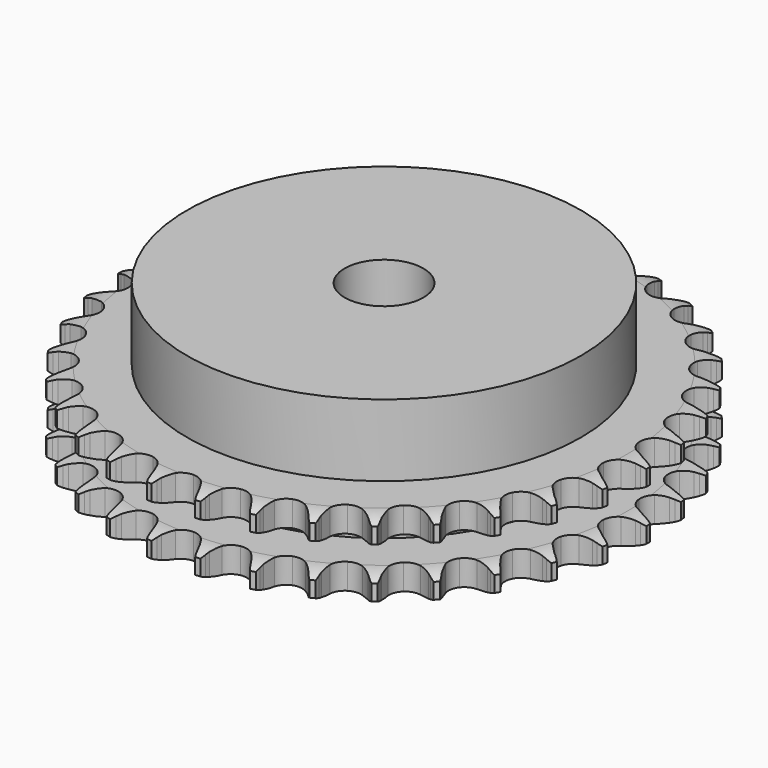
from build123d import *

# Parameters (mm, degrees)
PAD_DEPTH         = 15.4
SKETCH001_R       = 40
PAD001_DEPTH      = 30
SKETCH002_R       = 8
POCKET_DEPTH      = 0.001
POCKET_DEPTH_BACK = 30.001


with BuildPart() as part:
    # Sprocket → Pad (new body)
    with BuildSketch(Plane.XY):
        with BuildLine():
            ThreePointArc((-5.026037, 54.239578), (-4.44889, 53.462377), (-4.027454, 52.590867))
            Line((-4.027454, 52.590867), (-3.717669, 51.758402))
            ThreePointArc((-3.717669, 51.758402), (-3.226366, 50.680337), (-2.586733, 49.683105))
            ThreePointArc((-2.586733, 49.683105), (-1.446692, 48.728988), (0, 48.386769))
            ThreePointArc((0, 48.386769), (1.446692, 48.728988), (2.586733, 49.683105))
            ThreePointArc((2.586733, 49.683105), (3.226366, 50.680337), (3.717669, 51.758402))
            Line((3.717669, 51.758402), (4.027454, 52.590867))
            ThreePointArc((4.027454, 52.590867), (4.44889, 53.462377), (5.026037, 54.239578))
            ThreePointArc((5.026037, 54.239578), (5.450547, 53.36956), (5.704667, 52.43545))
            Line((5.704667, 52.43545), (5.856213, 51.560237))
            ThreePointArc((5.856213, 51.560237), (6.141056, 50.410251), (6.586558, 49.312466))
            ThreePointArc((6.586558, 49.312466), (7.531869, 48.165113), (8.891045, 47.562892))
            ThreePointArc((8.891045, 47.562892), (10.375987, 47.633455), (11.671935, 48.361844))
            Line((11.671935, 48.361844), (13.16495, 50.193997))
            ThreePointArc((13.16495, 50.193997), (13.383506, 50.580798), (13.622426, 50.955365))
            ThreePointArc((13.622426, 50.955365), (14.196826, 51.734597), (14.906956, 52.392514))
            ThreePointArc((14.906956, 52.392514), (15.164372, 51.459307), (15.242523, 50.494407))
            Line((15.242523, 50.494407), (15.230669, 49.606249))
            ThreePointArc((15.230669, 49.606249), (15.299353, 48.423504), (15.535551, 47.262551))
            ThreePointArc((15.535551, 47.262551), (16.25394, 45.961033), (17.479317, 45.119318))
            ThreePointArc((17.479317, 45.119318), (18.951941, 44.915822), (20.359664, 45.39368))
            Line((20.359664, 45.39368), (22.163914, 46.920296))
            ThreePointArc((22.163914, 46.920296), (22.449824, 47.260351), (22.753502, 47.584639))
            ThreePointArc((22.753502, 47.584639), (23.461305, 48.245058), (24.280236, 48.761286))
            ThreePointArc((24.280236, 48.761286), (24.361792, 47.796668), (24.261313, 46.833838))
            Line((24.261313, 46.833838), (24.086462, 45.962981))
            ThreePointArc((24.086462, 45.962981), (23.936648, 44.787754), (23.9555, 43.603166))
            ThreePointArc((23.9555, 43.603166), (24.422504, 42.191805), (25.472351, 41.13926))
            ThreePointArc((25.472351, 41.13926), (26.882509, 40.668635), (28.354069, 40.879688))
            Line((28.354069, 40.879688), (30.408113, 42.04878))
            ThreePointArc((30.408113, 42.04878), (30.75164, 42.33051), (31.109734, 42.593475))
            ThreePointArc((31.109734, 42.593475), (31.926838, 43.112591), (32.826681, 43.469551))
            ThreePointArc((32.826681, 43.469551), (32.729601, 42.506372), (32.453913, 41.578398))
            Line((32.453913, 41.578398), (32.12202, 40.754498))
            ThreePointArc((32.12202, 40.754498), (31.758809, 39.626809), (31.559673, 38.458928))
            ThreePointArc((31.559673, 38.458928), (31.759388, 36.985786), (32.597955, 35.758254))
            ThreePointArc((32.597955, 35.758254), (33.897625, 35.036526), (35.38291, 34.973587))
            Line((35.38291, 34.973587), (37.6168, 35.745343))
            ThreePointArc((37.6168, 35.745343), (38.006246, 35.959153), (38.406562, 36.151841))
            ThreePointArc((38.406562, 36.151841), (39.30514, 36.511976), (40.255254, 36.697513))
            ThreePointArc((40.255254, 36.697513), (39.982843, 35.768571), (39.541334, 34.907056))
            Line((39.541334, 34.907056), (39.0637, 34.158169))
            ThreePointArc((39.0637, 34.158169), (38.499462, 33.116422), (38.089119, 32.005017))
            ThreePointArc((38.089119, 32.005017), (38.014745, 30.520261), (38.613475, 29.159543))
            ThreePointArc((38.613475, 29.159543), (39.758398, 28.21129), (41.206828, 27.876503))
            Line((41.206828, 27.876503), (43.544492, 28.224642))
            ThreePointArc((43.544492, 28.224642), (43.966594, 28.363251), (44.395501, 28.4791))
            ThreePointArc((44.395501, 28.4791), (45.344954, 28.667989), (46.312982, 28.675784))
            ThreePointArc((46.312982, 28.675784), (45.874517, 27.812715), (45.282223, 27.046996))
            Line((45.282223, 27.046996), (44.675114, 26.398625))
            ThreePointArc((44.675114, 26.398625), (43.929062, 25.478294), (43.321486, 24.461213))
            ThreePointArc((43.321486, 24.461213), (42.975555, 23.015404), (43.314059, 21.567839))
            ThreePointArc((43.314059, 21.567839), (44.265247, 20.425353), (45.627497, 19.830117))
            Line((45.627497, 19.830117), (47.989329, 19.742784))
            ThreePointArc((47.989329, 19.742784), (48.429713, 19.801472), (48.872604, 19.836537))
            ThreePointArc((48.872604, 19.836537), (49.840599, 19.847749), (50.793577, 19.677536))
            ThreePointArc((50.793577, 19.677536), (50.203989, 18.909731), (49.481079, 18.265883))
            Line((49.481079, 18.265883), (48.76517, 17.740108))
            ThreePointArc((48.76517, 17.740108), (47.86271, 16.972534), (47.078591, 16.084413))
            ThreePointArc((47.078591, 16.084413), (46.472884, 14.726786), (46.539635, 13.241668))
            ThreePointArc((46.539635, 13.241668), (47.264696, 11.943855), (48.494377, 11.108441))
            Line((48.494377, 11.108441), (50.799947, 10.58861))
            ThreePointArc((50.799947, 10.58861), (51.243616, 10.565378), (51.68541, 10.518465))
            ThreePointArc((51.68541, 10.518465), (52.638982, 10.351617), (53.544457, 10.009194))
            ThreePointArc((53.544457, 10.009194), (52.823825, 9.362798), (51.994917, 8.862747))
            Line((51.994917, 8.862747), (51.194586, 8.477473))
            ThreePointArc((51.194586, 8.477473), (50.166452, 7.888794), (49.232492, 7.159877))
            ThreePointArc((49.232492, 7.159877), (48.387634, 5.936664), (48.180359, 4.464568))
            ThreePointArc((48.180359, 4.464568), (48.654602, 3.055623), (49.709839, 2.008481))
            Line((49.709839, 2.008481), (51.880633, 1.073853))
            ThreePointArc((51.880633, 1.073853), (52.312479, 0.969493), (52.73813, 0.842199))
            ThreePointArc((52.73813, 0.842199), (53.644808, 0.502974), (54.471946, 0))
            ThreePointArc((54.471946, 0), (53.644808, -0.502974), (52.73813, -0.842199))
            Line((52.73813, -0.842199), (51.880633, -1.073853))
            ThreePointArc((51.880633, -1.073853), (50.761835, -1.463589), (49.709839, -2.008481))
            ThreePointArc((49.709839, -2.008481), (48.654602, -3.055623), (48.180359, -4.464568))
            ThreePointArc((48.180359, -4.464568), (48.387634, -5.936664), (49.232492, -7.159877))
            Line((49.232492, -7.159877), (51.194586, -8.477473))
            ThreePointArc((51.194586, -8.477473), (51.599904, -8.659408), (51.994917, -8.862747))
            ThreePointArc((51.994917, -8.862747), (52.823825, -9.362798), (53.544457, -10.009194))
            ThreePointArc((53.544457, -10.009194), (52.638982, -10.351617), (51.68541, -10.518465))
            Line((51.68541, -10.518465), (50.799947, -10.58861))
            ThreePointArc((50.799947, -10.58861), (49.628584, -10.766131), (48.494377, -11.108441))
            ThreePointArc((48.494377, -11.108441), (47.264696, -11.943855), (46.539635, -13.241668))
            ThreePointArc((46.539635, -13.241668), (46.472884, -14.726786), (47.078591, -16.084413))
            Line((47.078591, -16.084413), (48.76517, -17.740108))
            ThreePointArc((48.76517, -17.740108), (49.130155, -17.993422), (49.481079, -18.265883))
            ThreePointArc((49.481079, -18.265883), (50.203989, -18.909731), (50.793577, -19.677536))
            ThreePointArc((50.793577, -19.677536), (49.840599, -19.847749), (48.872604, -19.836537))
            Line((48.872604, -19.836537), (47.989329, -19.742784))
            ThreePointArc((47.989329, -19.742784), (46.805292, -19.702046), (45.627497, -19.830117))
            ThreePointArc((45.627497, -19.830117), (44.265247, -20.425353), (43.314059, -21.567839))
            ThreePointArc((43.314059, -21.567839), (42.975555, -23.015404), (43.321486, -24.461213))
            Line((43.321486, -24.461213), (44.675114, -26.398625))
            ThreePointArc((44.675114, -26.398625), (44.987338, -26.714692), (45.282223, -27.046996))
            ThreePointArc((45.282223, -27.046996), (45.874517, -27.812715), (46.312982, -28.675784))
            ThreePointArc((46.312982, -28.675784), (45.344954, -28.667989), (44.395501, -28.4791))
            Line((44.395501, -28.4791), (43.544492, -28.224642))
            ThreePointArc((43.544492, -28.224642), (42.388102, -27.967031), (41.206828, -27.876503))
            ThreePointArc((41.206828, -27.876503), (39.758398, -28.21129), (38.613475, -29.159543))
            ThreePointArc((38.613475, -29.159543), (38.014745, -30.520261), (38.089119, -32.005017))
            Line((38.089119, -32.005017), (39.0637, -34.158169))
            ThreePointArc((39.0637, -34.158169), (39.312532, -34.526226), (39.541334, -34.907056))
            ThreePointArc((39.541334, -34.907056), (39.982843, -35.768571), (40.255254, -36.697513))
            ThreePointArc((40.255254, -36.697513), (39.30514, -36.511976), (38.406562, -36.151841))
            Line((38.406562, -36.151841), (37.6168, -35.745343))
            ThreePointArc((37.6168, -35.745343), (36.527435, -35.279632), (35.38291, -34.973587))
            ThreePointArc((35.38291, -34.973587), (33.897625, -35.036526), (32.597955, -35.758254))
            ThreePointArc((32.597955, -35.758254), (31.759388, -36.985786), (31.559673, -38.458928))
            Line((31.559673, -38.458928), (32.12202, -40.754498))
            ThreePointArc((32.12202, -40.754498), (32.298984, -41.16201), (32.453913, -41.578398))
            ThreePointArc((32.453913, -41.578398), (32.729601, -42.506372), (32.826681, -43.469551))
            ThreePointArc((32.826681, -43.469551), (31.926838, -43.112591), (31.109734, -42.593475))
            Line((31.109734, -42.593475), (30.408113, -42.04878))
            ThreePointArc((30.408113, -42.04878), (29.422871, -41.390828), (28.354069, -40.879688))
            ThreePointArc((28.354069, -40.879688), (26.882509, -40.668635), (25.472351, -41.13926))
            ThreePointArc((25.472351, -41.13926), (24.422504, -42.191805), (23.9555, -43.603166))
            Line((23.9555, -43.603166), (24.086462, -45.962981))
            ThreePointArc((24.086462, -45.962981), (24.185533, -46.396071), (24.261313, -46.833838))
            ThreePointArc((24.261313, -46.833838), (24.361792, -47.796668), (24.280236, -48.761286))
            ThreePointArc((24.280236, -48.761286), (23.461305, -48.245058), (22.753502, -47.584639))
            Line((22.753502, -47.584639), (22.163914, -46.920296))
            ThreePointArc((22.163914, -46.920296), (21.316346, -46.092509), (20.359664, -45.39368))
            ThreePointArc((20.359664, -45.39368), (18.951941, -44.915822), (17.479317, -45.119318))
            ThreePointArc((17.479317, -45.119318), (16.25394, -45.961033), (15.535551, -47.262551))
            Line((15.535551, -47.262551), (15.230669, -49.606249))
            ThreePointArc((15.230669, -49.606249), (15.248472, -50.05017), (15.242523, -50.494407))
            ThreePointArc((15.242523, -50.494407), (15.164372, -51.459307), (14.906956, -52.392514))
            ThreePointArc((14.906956, -52.392514), (14.196826, -51.734597), (13.622426, -50.955365))
            Line((13.622426, -50.955365), (13.16495, -50.193997))
            ThreePointArc((13.16495, -50.193997), (12.483918, -49.224564), (11.671935, -48.361844))
            ThreePointArc((11.671935, -48.361844), (10.375987, -47.633455), (8.891045, -47.562892))
            ThreePointArc((8.891045, -47.562892), (7.531869, -48.165113), (6.586558, -49.312466))
            Line((6.586558, -49.312466), (5.856213, -51.560237))
            ThreePointArc((5.856213, -51.560237), (5.792144, -51.99987), (5.704667, -52.43545))
            ThreePointArc((5.704667, -52.43545), (5.450547, -53.36956), (5.026037, -54.239578))
            ThreePointArc((5.026037, -54.239578), (4.44889, -53.462377), (4.027454, -52.590867))
            Line((4.027454, -52.590867), (3.717669, -51.758402))
            ThreePointArc((3.717669, -51.758402), (3.226366, -50.680337), (2.586733, -49.683105))
            ThreePointArc((2.586733, -49.683105), (1.446692, -48.728988), (0, -48.386769))
            ThreePointArc((0, -48.386769), (-1.446692, -48.728988), (-2.586733, -49.683105))
            Line((-2.586733, -49.683105), (-3.717669, -51.758402))
            ThreePointArc((-3.717669, -51.758402), (-3.86143, -52.178777), (-4.027454, -52.590867))
            ThreePointArc((-4.027454, -52.590867), (-4.44889, -53.462377), (-5.026037, -54.239578))
            ThreePointArc((-5.026037, -54.239578), (-5.450547, -53.36956), (-5.704667, -52.43545))
            Line((-5.704667, -52.43545), (-5.856213, -51.560237))
            ThreePointArc((-5.856213, -51.560237), (-6.141056, -50.410251), (-6.586558, -49.312466))
            ThreePointArc((-6.586558, -49.312466), (-7.531869, -48.165113), (-8.891045, -47.562892))
            ThreePointArc((-8.891045, -47.562892), (-10.375987, -47.633455), (-11.671935, -48.361844))
            Line((-11.671935, -48.361844), (-13.16495, -50.193997))
            ThreePointArc((-13.16495, -50.193997), (-13.383506, -50.580798), (-13.622426, -50.955365))
            ThreePointArc((-13.622426, -50.955365), (-14.196826, -51.734597), (-14.906956, -52.392514))
            ThreePointArc((-14.906956, -52.392514), (-15.164372, -51.459307), (-15.242523, -50.494407))
            Line((-15.242523, -50.494407), (-15.230669, -49.606249))
            ThreePointArc((-15.230669, -49.606249), (-15.299353, -48.423504), (-15.535551, -47.262551))
            ThreePointArc((-15.535551, -47.262551), (-16.25394, -45.961033), (-17.479317, -45.119318))
            ThreePointArc((-17.479317, -45.119318), (-18.951941, -44.915822), (-20.359664, -45.39368))
            Line((-20.359664, -45.39368), (-22.163914, -46.920296))
            ThreePointArc((-22.163914, -46.920296), (-22.449824, -47.260351), (-22.753502, -47.584639))
            ThreePointArc((-22.753502, -47.584639), (-23.461305, -48.245058), (-24.280236, -48.761286))
            ThreePointArc((-24.280236, -48.761286), (-24.361792, -47.796668), (-24.261313, -46.833838))
            Line((-24.261313, -46.833838), (-24.086462, -45.962981))
            ThreePointArc((-24.086462, -45.962981), (-23.936648, -44.787754), (-23.9555, -43.603166))
            ThreePointArc((-23.9555, -43.603166), (-24.422504, -42.191805), (-25.472351, -41.13926))
            ThreePointArc((-25.472351, -41.13926), (-26.882509, -40.668635), (-28.354069, -40.879688))
            Line((-28.354069, -40.879688), (-30.408113, -42.04878))
            ThreePointArc((-30.408113, -42.04878), (-30.75164, -42.33051), (-31.109734, -42.593475))
            ThreePointArc((-31.109734, -42.593475), (-31.926838, -43.112591), (-32.826681, -43.469551))
            ThreePointArc((-32.826681, -43.469551), (-32.729601, -42.506372), (-32.453913, -41.578398))
            Line((-32.453913, -41.578398), (-32.12202, -40.754498))
            ThreePointArc((-32.12202, -40.754498), (-31.758809, -39.626809), (-31.559673, -38.458928))
            ThreePointArc((-31.559673, -38.458928), (-31.759388, -36.985786), (-32.597955, -35.758254))
            ThreePointArc((-32.597955, -35.758254), (-33.897625, -35.036526), (-35.38291, -34.973587))
            Line((-35.38291, -34.973587), (-37.6168, -35.745343))
            ThreePointArc((-37.6168, -35.745343), (-38.006246, -35.959153), (-38.406562, -36.151841))
            ThreePointArc((-38.406562, -36.151841), (-39.30514, -36.511976), (-40.255254, -36.697513))
            ThreePointArc((-40.255254, -36.697513), (-39.982843, -35.768571), (-39.541334, -34.907056))
            Line((-39.541334, -34.907056), (-39.0637, -34.158169))
            ThreePointArc((-39.0637, -34.158169), (-38.499462, -33.116422), (-38.089119, -32.005017))
            ThreePointArc((-38.089119, -32.005017), (-38.014745, -30.520261), (-38.613475, -29.159543))
            ThreePointArc((-38.613475, -29.159543), (-39.758398, -28.21129), (-41.206828, -27.876503))
            Line((-41.206828, -27.876503), (-43.544492, -28.224642))
            ThreePointArc((-43.544492, -28.224642), (-43.966594, -28.363251), (-44.395501, -28.4791))
            ThreePointArc((-44.395501, -28.4791), (-45.344954, -28.667989), (-46.312982, -28.675784))
            ThreePointArc((-46.312982, -28.675784), (-45.874517, -27.812715), (-45.282223, -27.046996))
            Line((-45.282223, -27.046996), (-44.675114, -26.398625))
            ThreePointArc((-44.675114, -26.398625), (-43.929062, -25.478294), (-43.321486, -24.461213))
            ThreePointArc((-43.321486, -24.461213), (-42.975555, -23.015404), (-43.314059, -21.567839))
            ThreePointArc((-43.314059, -21.567839), (-44.265247, -20.425353), (-45.627497, -19.830117))
            Line((-45.627497, -19.830117), (-47.989329, -19.742784))
            ThreePointArc((-47.989329, -19.742784), (-48.429713, -19.801472), (-48.872604, -19.836537))
            ThreePointArc((-48.872604, -19.836537), (-49.840599, -19.847749), (-50.793577, -19.677536))
            ThreePointArc((-50.793577, -19.677536), (-50.203989, -18.909731), (-49.481079, -18.265883))
            Line((-49.481079, -18.265883), (-48.76517, -17.740108))
            ThreePointArc((-48.76517, -17.740108), (-47.86271, -16.972534), (-47.078591, -16.084413))
            ThreePointArc((-47.078591, -16.084413), (-46.472884, -14.726786), (-46.539635, -13.241668))
            ThreePointArc((-46.539635, -13.241668), (-47.264696, -11.943855), (-48.494377, -11.108441))
            Line((-48.494377, -11.108441), (-50.799947, -10.58861))
            ThreePointArc((-50.799947, -10.58861), (-51.243616, -10.565378), (-51.68541, -10.518465))
            ThreePointArc((-51.68541, -10.518465), (-52.638982, -10.351617), (-53.544457, -10.009194))
            ThreePointArc((-53.544457, -10.009194), (-52.823825, -9.362798), (-51.994917, -8.862747))
            Line((-51.994917, -8.862747), (-51.194586, -8.477473))
            ThreePointArc((-51.194586, -8.477473), (-50.166452, -7.888794), (-49.232492, -7.159877))
            ThreePointArc((-49.232492, -7.159877), (-48.387634, -5.936664), (-48.180359, -4.464568))
            ThreePointArc((-48.180359, -4.464568), (-48.654602, -3.055623), (-49.709839, -2.008481))
            Line((-49.709839, -2.008481), (-51.880633, -1.073853))
            ThreePointArc((-51.880633, -1.073853), (-52.312479, -0.969493), (-52.73813, -0.842199))
            ThreePointArc((-52.73813, -0.842199), (-53.644808, -0.502974), (-54.471946, 0))
            ThreePointArc((-54.471946, 0), (-53.644808, 0.502974), (-52.73813, 0.842199))
            Line((-52.73813, 0.842199), (-51.880633, 1.073853))
            ThreePointArc((-51.880633, 1.073853), (-50.761835, 1.463589), (-49.709839, 2.008481))
            ThreePointArc((-49.709839, 2.008481), (-48.654602, 3.055623), (-48.180359, 4.464568))
            ThreePointArc((-48.180359, 4.464568), (-48.387634, 5.936664), (-49.232492, 7.159877))
            Line((-49.232492, 7.159877), (-51.194586, 8.477473))
            ThreePointArc((-51.194586, 8.477473), (-51.599904, 8.659408), (-51.994917, 8.862747))
            ThreePointArc((-51.994917, 8.862747), (-52.823825, 9.362798), (-53.544457, 10.009194))
            ThreePointArc((-53.544457, 10.009194), (-52.638982, 10.351617), (-51.68541, 10.518465))
            Line((-51.68541, 10.518465), (-50.799947, 10.58861))
            ThreePointArc((-50.799947, 10.58861), (-49.628584, 10.766131), (-48.494377, 11.108441))
            ThreePointArc((-48.494377, 11.108441), (-47.264696, 11.943855), (-46.539635, 13.241668))
            ThreePointArc((-46.539635, 13.241668), (-46.472884, 14.726786), (-47.078591, 16.084413))
            Line((-47.078591, 16.084413), (-48.76517, 17.740108))
            ThreePointArc((-48.76517, 17.740108), (-49.130155, 17.993422), (-49.481079, 18.265883))
            ThreePointArc((-49.481079, 18.265883), (-50.203989, 18.909731), (-50.793577, 19.677536))
            ThreePointArc((-50.793577, 19.677536), (-49.840599, 19.847749), (-48.872604, 19.836537))
            Line((-48.872604, 19.836537), (-47.989329, 19.742784))
            ThreePointArc((-47.989329, 19.742784), (-46.805292, 19.702046), (-45.627497, 19.830117))
            ThreePointArc((-45.627497, 19.830117), (-44.265247, 20.425353), (-43.314059, 21.567839))
            ThreePointArc((-43.314059, 21.567839), (-42.975555, 23.015404), (-43.321486, 24.461213))
            Line((-43.321486, 24.461213), (-44.675114, 26.398625))
            ThreePointArc((-44.675114, 26.398625), (-44.987338, 26.714692), (-45.282223, 27.046996))
            ThreePointArc((-45.282223, 27.046996), (-45.874517, 27.812715), (-46.312982, 28.675784))
            ThreePointArc((-46.312982, 28.675784), (-45.344954, 28.667989), (-44.395501, 28.4791))
            Line((-44.395501, 28.4791), (-43.544492, 28.224642))
            ThreePointArc((-43.544492, 28.224642), (-42.388102, 27.967031), (-41.206828, 27.876503))
            ThreePointArc((-41.206828, 27.876503), (-39.758398, 28.21129), (-38.613475, 29.159543))
            ThreePointArc((-38.613475, 29.159543), (-38.014745, 30.520261), (-38.089119, 32.005017))
            Line((-38.089119, 32.005017), (-39.0637, 34.158169))
            ThreePointArc((-39.0637, 34.158169), (-39.312532, 34.526226), (-39.541334, 34.907056))
            ThreePointArc((-39.541334, 34.907056), (-39.982843, 35.768571), (-40.255254, 36.697513))
            ThreePointArc((-40.255254, 36.697513), (-39.30514, 36.511976), (-38.406562, 36.151841))
            Line((-38.406562, 36.151841), (-37.6168, 35.745343))
            ThreePointArc((-37.6168, 35.745343), (-36.527435, 35.279632), (-35.38291, 34.973587))
            ThreePointArc((-35.38291, 34.973587), (-33.897625, 35.036526), (-32.597955, 35.758254))
            ThreePointArc((-32.597955, 35.758254), (-31.759388, 36.985786), (-31.559673, 38.458928))
            Line((-31.559673, 38.458928), (-32.12202, 40.754498))
            ThreePointArc((-32.12202, 40.754498), (-32.298984, 41.16201), (-32.453913, 41.578398))
            ThreePointArc((-32.453913, 41.578398), (-32.729601, 42.506372), (-32.826681, 43.469551))
            ThreePointArc((-32.826681, 43.469551), (-31.926838, 43.112591), (-31.109734, 42.593475))
            Line((-31.109734, 42.593475), (-30.408113, 42.04878))
            ThreePointArc((-30.408113, 42.04878), (-29.422871, 41.390828), (-28.354069, 40.879688))
            ThreePointArc((-28.354069, 40.879688), (-26.882509, 40.668635), (-25.472351, 41.13926))
            ThreePointArc((-25.472351, 41.13926), (-24.422504, 42.191805), (-23.9555, 43.603166))
            Line((-23.9555, 43.603166), (-24.086462, 45.962981))
            ThreePointArc((-24.086462, 45.962981), (-24.185533, 46.396071), (-24.261313, 46.833838))
            ThreePointArc((-24.261313, 46.833838), (-24.361792, 47.796668), (-24.280236, 48.761286))
            ThreePointArc((-24.280236, 48.761286), (-23.461305, 48.245058), (-22.753502, 47.584639))
            Line((-22.753502, 47.584639), (-22.163914, 46.920296))
            ThreePointArc((-22.163914, 46.920296), (-21.316346, 46.092509), (-20.359664, 45.39368))
            ThreePointArc((-20.359664, 45.39368), (-18.951941, 44.915822), (-17.479317, 45.119318))
            ThreePointArc((-17.479317, 45.119318), (-16.25394, 45.961033), (-15.535551, 47.262551))
            Line((-15.535551, 47.262551), (-15.230669, 49.606249))
            ThreePointArc((-15.230669, 49.606249), (-15.248472, 50.05017), (-15.242523, 50.494407))
            ThreePointArc((-15.242523, 50.494407), (-15.164372, 51.459307), (-14.906956, 52.392514))
            ThreePointArc((-14.906956, 52.392514), (-14.196826, 51.734597), (-13.622426, 50.955365))
            Line((-13.622426, 50.955365), (-13.16495, 50.193997))
            ThreePointArc((-13.16495, 50.193997), (-12.483918, 49.224564), (-11.671935, 48.361844))
            ThreePointArc((-11.671935, 48.361844), (-10.375987, 47.633455), (-8.891045, 47.562892))
            ThreePointArc((-8.891045, 47.562892), (-7.531869, 48.165113), (-6.586558, 49.312466))
            Line((-6.586558, 49.312466), (-5.856213, 51.560237))
            ThreePointArc((-5.856213, 51.560237), (-5.792144, 51.99987), (-5.704667, 52.43545))
            ThreePointArc((-5.704667, 52.43545), (-5.450547, 53.36956), (-5.026037, 54.239578))
        make_face()
    extrude(amount=PAD_DEPTH)

    # Sketch → Groove (revolve, cut)
    with BuildSketch(Plane.XZ):
        with BuildLine():
            ThreePointArc((49.291101, 0), (51.527169, 0.253206), (53.65, 1))
            Line((53.65, 1), (53.65, 4.2))
            ThreePointArc((53.65, 4.2), (51.527169, 4.946794), (49.291101, 5.2))
            Line((40, 5.2), (49.291101, 5.2))
            Line((40, 10.2), (40, 5.2))
            Line((49.291101, 10.2), (40, 10.2))
            ThreePointArc((49.291101, 10.2), (51.527169, 10.453206), (53.65, 11.2))
            Line((53.65, 11.2), (53.65, 14.4))
            ThreePointArc((53.65, 14.4), (51.527169, 15.146794), (49.291101, 15.4))
            Line((49.291101, 15.4), (59.291101, 15.4))
            Line((59.291101, 15.4), (59.291101, 0))
            Line((49.291101, 0), (59.291101, 0))
        make_face()
    revolve(axis=Axis((0, 0, 0), (0, 0, 1)), mode=Mode.SUBTRACT)

    # Sketch001 → Pad001 (join)
    with BuildSketch(Plane.XY):
        Circle(SKETCH001_R)
    extrude(amount=PAD001_DEPTH)

    # Sketch002 → Pocket (cut, two sides)
    with BuildSketch(Plane.XY) as pocket_sk:
        Circle(SKETCH002_R)
    extrude(amount=-POCKET_DEPTH, mode=Mode.SUBTRACT)
    extrude(pocket_sk.sketch, amount=POCKET_DEPTH_BACK, mode=Mode.SUBTRACT)


solid = part.part
